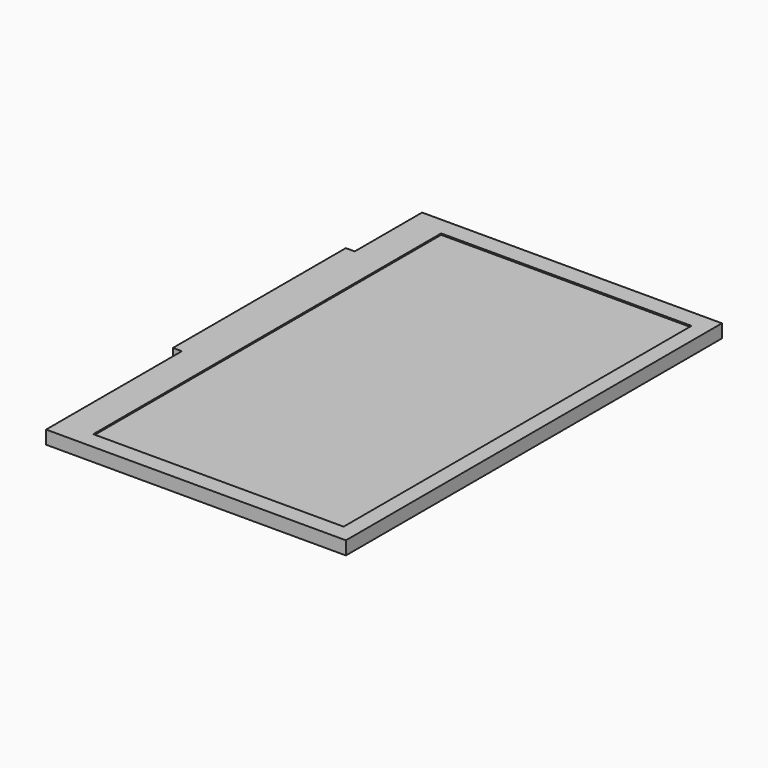
from build123d import *

# Parameters (mm, degrees)
F0_W     = 67.3
F0_H     = 105.5
F1_DEPTH = 3
F2_W     = 56.2
F2_H     = 97.6
F3_DEPTH = 0.3
F4_W     = 48.5
F4_H     = 3
F5_DEPTH = 2


with BuildPart() as f1:
    # F0 (on Top) → F1 (new body)
    with BuildSketch(Plane.XY):
        with Locations((11.620628, 4.456163)):
            Rectangle(F0_W, F0_H)
    extrude(amount=F1_DEPTH)

    # F2 (on face) → F3 (cut)
    with BuildSketch(Plane.XY.offset(3)):
        with Locations((13.620628, 4.306163)):
            Rectangle(F2_W, F2_H)
    extrude(amount=-F3_DEPTH, mode=Mode.SUBTRACT)

    # F4 (on face) → F5 (join)
    with BuildSketch(Plane(origin=(-22.029372, 0, 0), x_dir=(0, -1, 0), z_dir=(-1, 0, 0))):
        with Locations((-14.056163, 1.5)):
            Rectangle(F4_W, F4_H)
    extrude(amount=F5_DEPTH)


solid = f1.part
